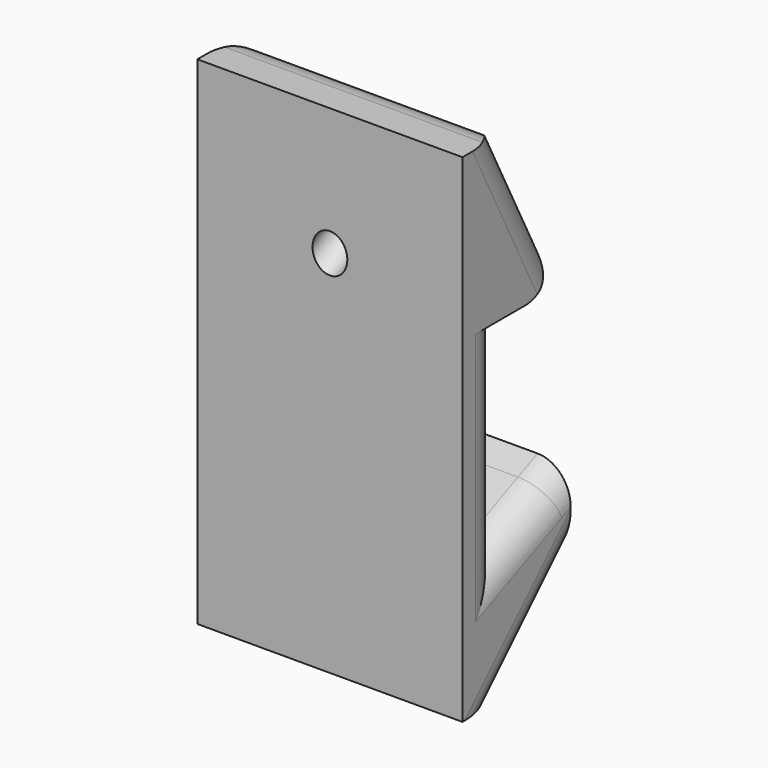
from build123d import *

# Parameters (mm, degrees)
F1_DEPTH = 16
F2_R     = 1.05
F3_DEPTH = 7.7105812745
F4_R     = 2


with BuildPart() as f1:
    # F0 (on Right) → F1 (new body)
    with BuildSketch(Plane.YZ):
        Polygon((-1.5, -15), (1.5, -15), (1.5, -7), (1.5, -3), (1.5, 5.2020410289), (1.5, 15), (-1.5, 15), align=None)
        Polygon((6.5, 5.2020410289), (1.5, 15), (1.5, 5.2020410289), align=None)
        Polygon((1.5, -7), (1.5, -15), (6.6618086312, -9.8381913688), (6.6618086312, -4.7058628306), (5.187990124, -5.3608932782), align=None)
    extrude(amount=F1_DEPTH)

    # F2 (on face) → F3 (cut, up to face)
    with BuildSketch(Plane(origin=(0, 7.2631977094, 3.7064850602), x_dir=(-1, 0, 0), z_dir=(0, 0.8907235428, 0.4545454545))):
        with Locations((-8, 7.1790349606)):
            Circle(F2_R)
    extrude(amount=-F3_DEPTH, mode=Mode.SUBTRACT)

    # F4
    f4_edges = [f1.edges().sort_by_distance(p)[0] for p in [
        (16, 1.5, -0.898979),
        (0, 1.5, -0.898979),
        (16, 4, 10.101021),
        (0, 4, 10.101021),
        (8, 6.5, 5.202041),
        (8, 6.661809, -9.838191),
        (16, 4.080904, -12.419096),
        (0, 4.080904, -12.419096),
        (16, 4.080904, -5.852931),
        (0, 4.080904, -5.852931),
        (8, 1.5, 15),
        (8, 1.5, -15),
    ]]
    fillet(f4_edges, radius=F4_R)


solid = f1.part
